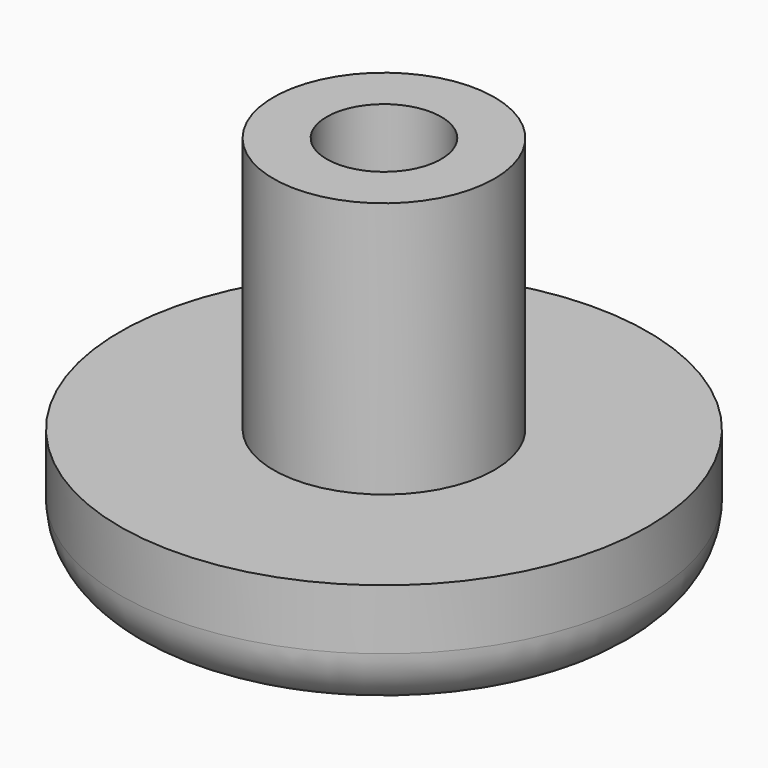
from build123d import *

# Parameters (mm, degrees)
F0_R     = 8.75
F1_DEPTH = 4
F2_R     = 3.6616494724
F3_DEPTH = 8.5
F5_D     = 3.7973
F5_DEPTH = 8.5
F5_TIP   = 1.1408240143
F6_R     = 2


with BuildPart() as f1:
    # F0 (on Top) → F1 (new body)
    with BuildSketch(Plane.XY):
        Circle(F0_R)
    extrude(amount=F1_DEPTH)

    # F2 (on face) → F3 (join)
    with BuildSketch(Plane.XY.offset(4)):
        Circle(F2_R)
    extrude(amount=F3_DEPTH)

    # F5
    with Locations(Plane.XY.offset(12.5)):
        with Locations((0, 0)):
            Hole(F5_D / 2, depth=F5_DEPTH)
            with Locations((0, 0, -(F5_DEPTH + F5_TIP / 2))):  # 118° drill point
                Cone(0, F5_D / 2, F5_TIP, mode=Mode.SUBTRACT)

    # F6
    f6_edges = [f1.edges().sort_by_distance(p)[0] for p in [
        (-8.75, 0, 0),
    ]]
    fillet(f6_edges, radius=F6_R)


solid = f1.part
